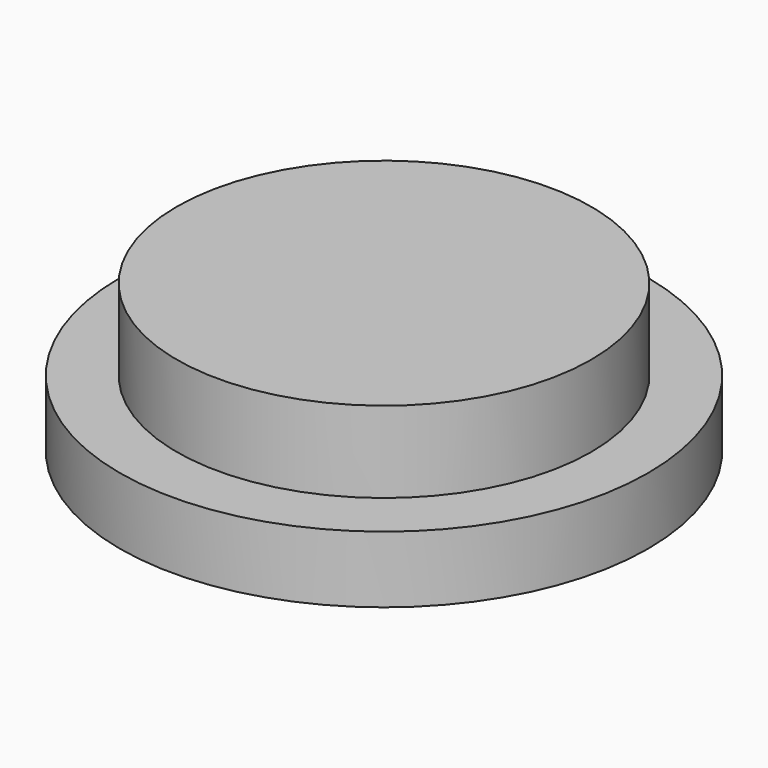
from build123d import *

# Parameters (mm, degrees)
CYLINDER001_R     = 51
CYLINDER001_DEPTH = 20
CYLINDER003_R     = 65
CYLINDER003_DEPTH = 16.4


with BuildPart() as obj1:
    # Cylinder001 → Cylinder001 (new body)
    with BuildSketch(Plane(origin=(105, 68, 0), x_dir=(1, 0, 0), z_dir=(0, 0, 1))):
        Circle(CYLINDER001_R)
    extrude(amount=CYLINDER001_DEPTH)


with BuildPart() as fusion:
    # Cylinder003 → Cylinder003 (new body)
    with BuildSketch(Plane(origin=(105, 68, -16.4), x_dir=(1, 0, 0), z_dir=(0, 0, 1))):
        Circle(CYLINDER003_R)
    extrude(amount=CYLINDER003_DEPTH)

    # Fusion: union obj1
    add(obj1.part)


solid = fusion.part
